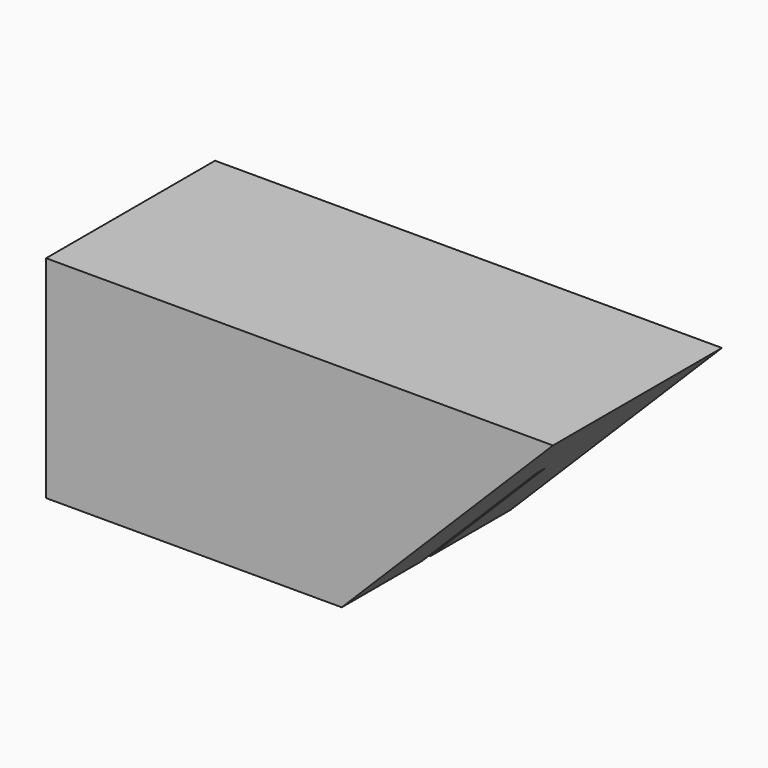
from build123d import *

# Parameters (mm, degrees)
F1_DEPTH = 76.2
F3_DEPTH = 31.751


with BuildPart() as f1:
    # F0 (on Right) → F1 (new body)
    with BuildSketch(Plane.YZ):
        Polygon((15.875, 15.875), (-15.875, 15.875), (-15.875, -15.875), (-0.79375, -15.875), (-0.79375, 1.397), (0.79375, 1.397), (0.79375, -15.875), (15.875, -15.875), align=None)
    extrude(amount=F1_DEPTH)

    # F2 (on face) → F3 (cut, through all)
    with BuildSketch(Plane.XZ.offset(15.875)):
        Polygon((76.2, -15.875), (76.2, 15.875), (44.45, -15.875), align=None)
    extrude(amount=-F3_DEPTH, mode=Mode.SUBTRACT)


solid = f1.part
